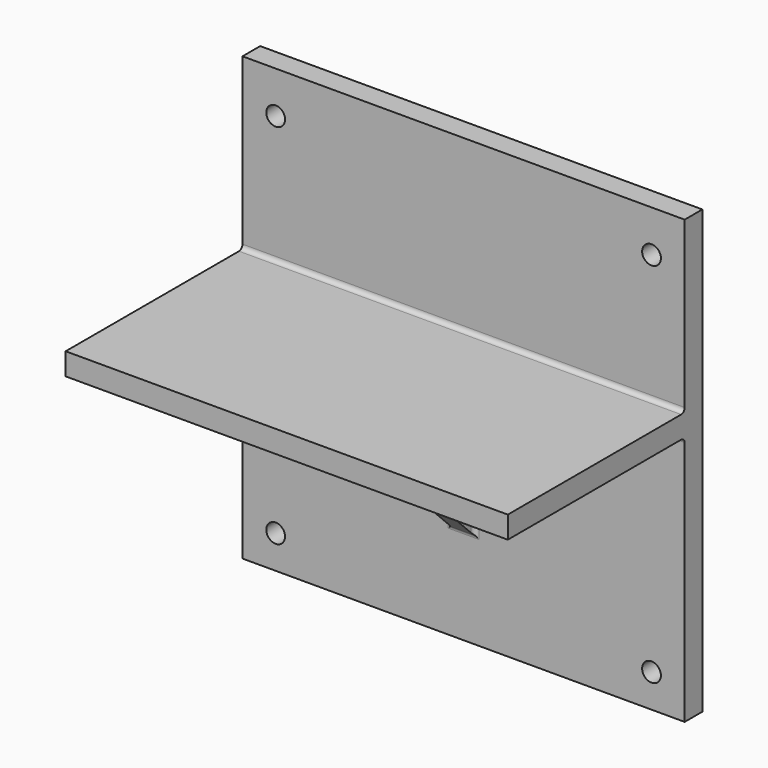
from build123d import *

# Parameters (mm, degrees)
F0_W     = 100
F0_H     = 10
F1_DEPTH = 25
F2_DEPTH = 200
F4_D     = 8.5
F5_W     = 10
F5_H     = 70
F6_DEPTH = 70
F8_DEPTH = 10
F9_R     = 2


with BuildPart() as f1:
    # F0 (on Right) → F1 (new body)
    with BuildSketch(Plane.YZ):
        Polygon((-24.8284184933, -181.1069155963), (-24.8284184933, 18.8930844037), (-34.8284184933, 18.8930844037), (-34.8284184933, -57.9069155963), (-34.8284184933, -67.9069155963), (-34.8284184933, -181.1069155963), align=None)
        with Locations((-84.8284184933, -62.9069155963)):
            Rectangle(F0_W, F0_H)
    extrude(amount=F1_DEPTH)

    # F0 (on Right) + F1_face (on face) → F2 (join)
    with BuildSketch(Plane.YZ):
        Polygon((-24.8284184933, -181.1069155963), (-24.8284184933, 18.8930844037), (-34.8284184933, 18.8930844037), (-34.8284184933, -57.9069155963), (-34.8284184933, -67.9069155963), (-34.8284184933, -181.1069155963), align=None)
        with Locations((-84.8284184933, -62.9069155963)):
            Rectangle(F0_W, F0_H)
    with BuildSketch(Plane(origin=(0, -48.1617518266, -75.0402489297), x_dir=(0, 1, 0), z_dir=(-1, 0, 0))):
        Polygon((23.3333333333, -93.9333333333), (23.3333333333, 106.0666666667), (13.3333333333, 106.0666666667), (13.3333333333, -7.1333333333), (-86.6666666667, -7.1333333333), (-86.6666666667, -17.1333333333), (13.3333333333, -17.1333333333), (13.3333333333, -93.9333333333), align=None)
    extrude(amount=F2_DEPTH, dir=(1, 0, 0))

    # F4 (through all)
    with Locations(Plane.XZ.offset(34.8284184933)):
        with Locations((15, 0), (185, 0), (185, -166.1069155963), (15, -166.1069155963)):
            Hole(F4_D / 2)

    # F5 (on face) → F6 (join)
    with BuildSketch(Plane.XZ.offset(34.8284184933)):
        with Locations((100, -102.9069155963)):
            Rectangle(F5_W, F5_H)
    extrude(amount=F6_DEPTH)

    # F7 (on face) → F8 (cut)
    with BuildSketch(Plane(origin=(95, 0, 0), x_dir=(0, -1, 0), z_dir=(-1, 0, 0))):
        Polygon((104.8284184933, -67.9069155963), (34.8284184933, -137.9069155963), (104.8284184933, -137.9069155963), align=None)
    extrude(amount=-F8_DEPTH, mode=Mode.SUBTRACT)

    # F9
    f9_edges = [f1.edges().sort_by_distance(p)[0] for p in [
        (100, -34.828418, -57.906916),
        (47.5, -34.828418, -67.906916),
        (152.5, -34.828418, -67.906916),
        (95, -34.828418, -102.906916),
        (95, -69.828418, -67.906916),
        (100, -34.828418, -137.906916),
        (100, -104.828418, -67.906916),
        (105, -34.828418, -102.906916),
        (105, -69.828418, -67.906916),
    ]]
    fillet(f9_edges, radius=F9_R)


solid = f1.part
